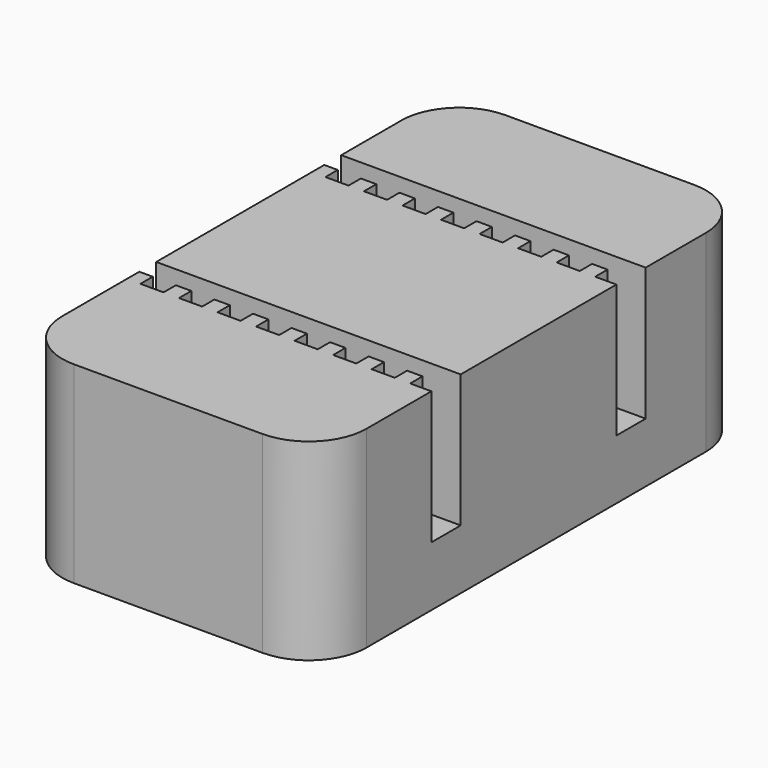
from build123d import *

# Parameters (mm, degrees)
BOX_W        = 19
BOX_H        = 1.1
BOX_DEPTH    = 7
SKETCH015_W  = 1.2
SKETCH015_H  = 7
PAD_DEPTH    = 0.8
BOX002_W     = 19
BOX002_H     = 1.1
BOX002_DEPTH = 7
SKETCH016_W  = 1.2
SKETCH016_H  = 7
PAD001_DEPTH = 0.8
BOX001_W     = 15.8
BOX001_H     = 28
BOX001_DEPTH = 10
FILLET_R     = 3


with BuildPart() as pad:
    # Box → Box (new body)
    with BuildSketch(Plane(origin=(-0.5, 20, 3.1), x_dir=(1, 0, 0), z_dir=(0, 0, 1))):
        with Locations((9.5, 0.55)):
            Rectangle(BOX_W, BOX_H)
    extrude(amount=BOX_DEPTH)

    # Sketch015 → Pad (new body)
    with BuildSketch(Plane(origin=(-0.5, 20, 3.1), x_dir=(1, 0, 0), z_dir=(0, -1, 0))):
        with Locations((1.4, 3.5)):
            Rectangle(SKETCH015_W, SKETCH015_H)
        with Locations((3.4, 3.5)):
            Rectangle(SKETCH015_W, SKETCH015_H)
        with Locations((5.4, 3.5)):
            Rectangle(SKETCH015_W, SKETCH015_H)
        with Locations((7.4, 3.5)):
            Rectangle(SKETCH015_W, SKETCH015_H)
        with Locations((9.4, 3.5)):
            Rectangle(SKETCH015_W, SKETCH015_H)
        with Locations((11.4, 3.5)):
            Rectangle(SKETCH015_W, SKETCH015_H)
        with Locations((13.4, 3.5)):
            Rectangle(SKETCH015_W, SKETCH015_H)
        with Locations((15.4, 3.5)):
            Rectangle(SKETCH015_W, SKETCH015_H)
    extrude(amount=PAD_DEPTH)


with BuildPart() as pad001:
    # Box002 → Box002 (new body)
    with BuildSketch(Plane(origin=(-0.5, 8, 3.1), x_dir=(1, 0, 0), z_dir=(0, 0, 1))):
        with Locations((9.5, 0.55)):
            Rectangle(BOX002_W, BOX002_H)
    extrude(amount=BOX002_DEPTH)

    # Sketch016 → Pad001 (new body)
    with BuildSketch(Plane(origin=(-0.5, 8, 3.1), x_dir=(1, 0, 0), z_dir=(0, -1, 0))):
        with Locations((1.4, 3.5)):
            Rectangle(SKETCH016_W, SKETCH016_H)
        with Locations((3.4, 3.5)):
            Rectangle(SKETCH016_W, SKETCH016_H)
        with Locations((5.4, 3.5)):
            Rectangle(SKETCH016_W, SKETCH016_H)
        with Locations((7.4, 3.5)):
            Rectangle(SKETCH016_W, SKETCH016_H)
        with Locations((9.4, 3.5)):
            Rectangle(SKETCH016_W, SKETCH016_H)
        with Locations((11.4, 3.5)):
            Rectangle(SKETCH016_W, SKETCH016_H)
        with Locations((13.4, 3.5)):
            Rectangle(SKETCH016_W, SKETCH016_H)
        with Locations((15.4, 3.5)):
            Rectangle(SKETCH016_W, SKETCH016_H)
    extrude(amount=PAD001_DEPTH)


with BuildPart() as fillet_body:
    # Box001 → Box001 (new body)
    with BuildSketch(Plane(origin=(-0.4, 0, 0), x_dir=(1, 0, 0), z_dir=(0, 0, 1))):
        with Locations((7.9, 14)):
            Rectangle(BOX001_W, BOX001_H)
    extrude(amount=BOX001_DEPTH)

    # Cut: cut Pad001
    add(pad001.part, mode=Mode.SUBTRACT)

    # Cut001: cut Pad
    add(pad.part, mode=Mode.SUBTRACT)

    # Fillet
    fillet_edges = [fillet_body.edges().sort_by_distance(p)[0] for p in [
        (-0.4, 28, 5),
        (-0.4, 0, 5),
        (15.4, 28, 5),
        (15.4, 0, 5),
    ]]
    fillet(fillet_edges, radius=FILLET_R)


solid = fillet_body.part
